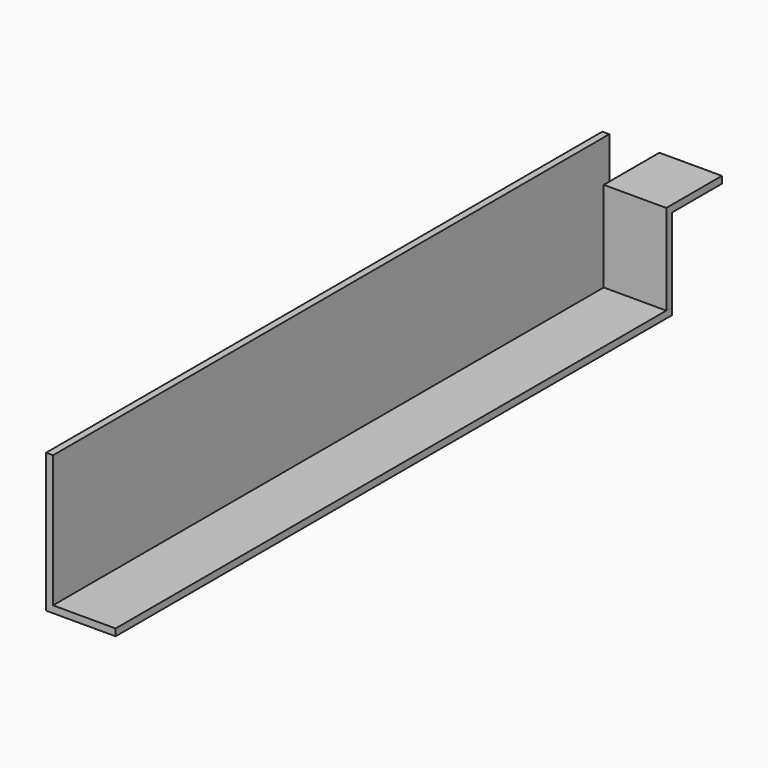
from build123d import *

# Parameters (mm, degrees)
F1_DEPTH = 500
F3_DEPTH = 45


with BuildPart() as f1:
    # F0 (on Front) → F1 (new body)
    with BuildSketch(Plane.XZ):
        Polygon((0, 100), (0, 0), (50, 0), (50, 4.9999998882), (5, 4.9999998882), (5, 100), align=None)
    extrude(amount=F1_DEPTH)


with BuildPart() as f3:
    # F2 (on Right) → F3 (new body)
    with BuildSketch(Plane.YZ):
        Polygon((-4.9999982119, 70), (-4.9999982119, 4.9999998882), (0, 4.9999998882), (0, 65), (45.0000017881, 65), (45.0000017881, 70), align=None)
    extrude(amount=F3_DEPTH)


with BuildPart() as f3_1:
    # F4: moved
    add(f3.part.moved(Location((5, 0, 0))))


solid = Compound([f1.part, f3_1.part])
